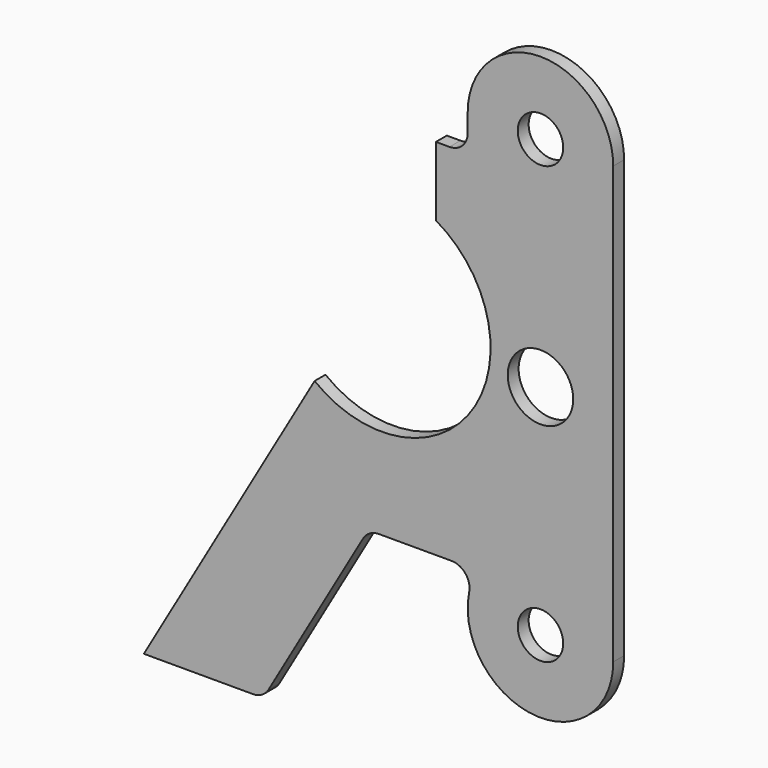
from build123d import *

# Parameters (mm, degrees)
F0_R     = 7.9375
F0_R_2   = 11.43
F1_DEPTH = 4.7625


with BuildPart() as f1:
    # F0 (on Front) → F1 (new body)
    with BuildSketch(Plane.XZ):
        with BuildLine():
            Line((47.11208, 87.262943), (42.349013, 87.262943))
            Line((42.349013, 87.262943), (42.349013, 63.132943))
            ThreePointArc((42.349013, 63.132943), (54.982151, 8.888606), (0, 0))
            Line((0, 0), (-59.603945, -103.237061))
            Line((-59.603945, -103.237061), (-21.562884, -103.237061))
            ThreePointArc((-21.562884, -103.237061), (-18.387884, -102.386322), (-16.063623, -100.062061))
            Line((-16.063623, -100.062061), (16.931947, -42.912057))
            ThreePointArc((16.931947, -42.912057), (19.256209, -40.587796), (22.431209, -39.737057))
            Line((22.431209, -39.737057), (47.75356, -39.737057))
            ThreePointArc((47.75356, -39.737057), (52.672249, -42.070965), (53.975264, -47.357057))
            ThreePointArc((53.975264, -47.357057), (76.309152, -77.708435), (104.26208, -52.437057))
            Line((104.26208, -52.437057), (104.26208, 99.962943))
            ThreePointArc((104.26208, 99.962943), (78.86208, 125.362943), (53.46208, 99.962943))
            Line((53.46208, 99.962943), (53.46208, 93.612943))
            ThreePointArc((53.46208, 93.612943), (51.602208, 89.122815), (47.11208, 87.262943))
        make_face()
        with Locations((78.86208, -52.437057)):
            Circle(F0_R, mode=Mode.SUBTRACT)
        with Locations((78.86208, 23.762943)):
            Circle(F0_R_2, mode=Mode.SUBTRACT)
        with Locations((78.86208, 99.962943)):
            Circle(F0_R, mode=Mode.SUBTRACT)
    extrude(amount=F1_DEPTH)


solid = f1.part
